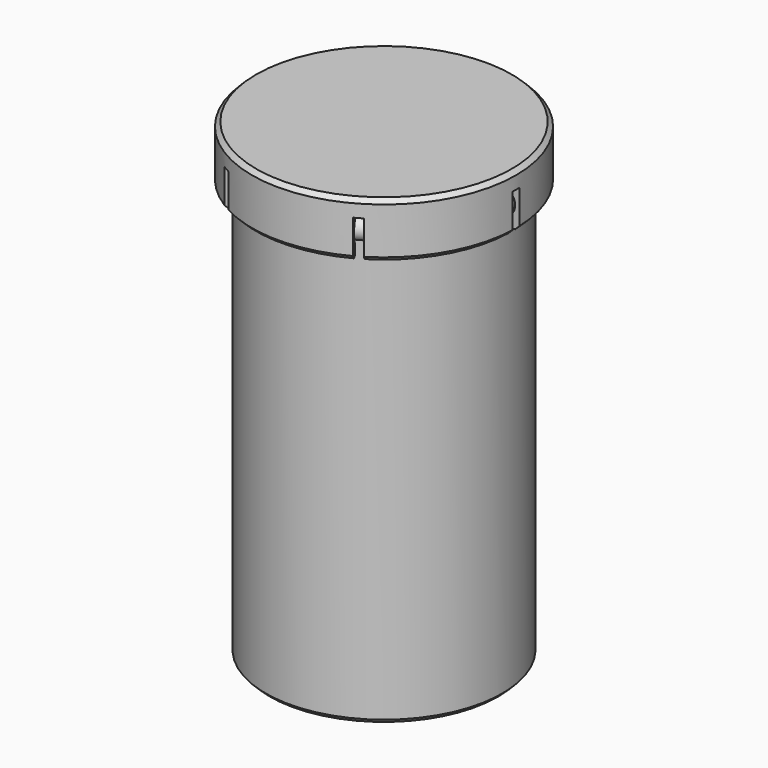
from build123d import *

# Parameters (mm, degrees)
CHAMFER_SIZE       = 1
CHAMFER001_SIZE    = 0.4
CHAMFER002_SIZE    = 1
CHAMFER003_SIZE    = 0.4
SKETCH002_W        = 70
SKETCH002_H        = 2
POCKET_DEPTH       = 9
POLARPATTERN_COUNT = 3
SKETCH003_R        = 29
POCKET001_DEPTH    = 5
FILLET_R           = 1


with BuildPart() as body:
    # Sketch → Revolution (revolve)
    with BuildSketch(Plane.XZ):
        with BuildLine():
            Line((0, 0), (0, 3))
            Line((0, 3), (-25, 3))
            Line((-25, 3), (-25, 108))
            Line((-25, 108), (-28, 108))
            Line((-28, 108), (-28, 105.291288))
            ThreePointArc((-28, 105.291288), (-29.5, 103), (-28, 100.708712))
            Line((-28, 100.708712), (-28, 0))
            Line((-28, 0), (0, 0))
        make_face()
    revolve(axis=Axis((0, 0, 0), (0, 0, 1)))

    # Chamfer
    chamfer_edges = [body.edges().sort_by_distance(p)[0] for p in [
        (28, 0, 0),
        (28, 0, 108),
    ]]
    chamfer(chamfer_edges, length=CHAMFER_SIZE)

    # Chamfer001
    chamfer001_edges = [body.edges().sort_by_distance(p)[0] for p in [
        (25, 0, 3),
        (25, 0, 108),
    ]]
    chamfer(chamfer001_edges, length=CHAMFER001_SIZE)


with BuildPart() as cap:
    # Sketch001 → Revolution001 (revolve)
    with BuildSketch(Plane.XZ):
        with BuildLine():
            ThreePointArc((-28.25, -2.171573), (-30.25, -5), (-28.25, -7.828427))
            Line((-28.25, -10), (-28.25, -7.828427))
            Line((-28.25, -10), (-31.25, -10))
            Line((-31.25, -10), (-31.25, 3))
            Line((-31.25, 3), (0, 3))
            Line((0, 3), (0, 0))
            Line((-28.25, 0), (0, 0))
            Line((-28.25, 0), (-28.25, -2.171573))
        make_face()
    revolve(axis=Axis((0, 0, 0), (0, 0, 1)))

    # Chamfer002
    chamfer002_edges = [cap.edges().sort_by_distance(p)[0] for p in [
        (31.25, 0, 3),
        (31.25, 0, -10),
        (28.25, 0, -10),
    ]]
    chamfer(chamfer002_edges, length=CHAMFER002_SIZE)

    # Chamfer003
    chamfer003_edges = [cap.edges().sort_by_distance(p)[0] for p in [
        (28.25, 0, -9),
        (28.25, 0, -7.828427),
    ]]
    chamfer(chamfer003_edges, length=CHAMFER003_SIZE)

    # Sketch002 (on Face6 of Chamfer003) → Pocket (cut)
    with BuildSketch(Plane(origin=(0, 0, -10), x_dir=(1, 0, 0), z_dir=(0, 0, -1))):
        Rectangle(SKETCH002_W, SKETCH002_H)
    pocket = extrude(amount=-POCKET_DEPTH, mode=Mode.SUBTRACT)

    # PolarPattern: Pocket ×3 about axis
    polarpattern_axis = Axis((0, 0, -10), (0, 0, -1))
    for i in range(1, POLARPATTERN_COUNT):
        add(pocket.rotate(polarpattern_axis, i * 360 / POLARPATTERN_COUNT), mode=Mode.SUBTRACT)

    # Sketch003 (on Face45 of PolarPattern) → Pocket001 (cut)
    with BuildSketch(Plane(origin=(0, 0, -10), x_dir=(1, 0, 0), z_dir=(0, 0, -1))):
        Circle(SKETCH003_R)
    extrude(amount=-POCKET001_DEPTH, mode=Mode.SUBTRACT)

    # Fillet
    fillet_edges = [cap.edges().sort_by_distance(p)[0] for p in [
        (25.114737, -14.5, -7.436699),
        (25.114737, 14.5, -7.436699),
        (0, -29, -7.436699),
        (-25.114737, -14.5, -7.436699),
        (-25.114737, 14.5, -7.436699),
        (-24.465218, 14.125, -2.171573),
        (-24.465218, -14.125, -2.171573),
        (0, -28.25, -2.171573),
        (24.465218, -14.125, -2.171573),
        (24.465218, 14.125, -2.171573),
        (0, 28.25, -2.171573),
        (0, 29, -7.436699),
    ]]
    fillet(fillet_edges, radius=FILLET_R)


with BuildPart() as cap_1:
    # Body001 placement: moved
    add(cap.part.moved(Location((0, 0, 108))))


solid = Compound([body.part, cap_1.part])
